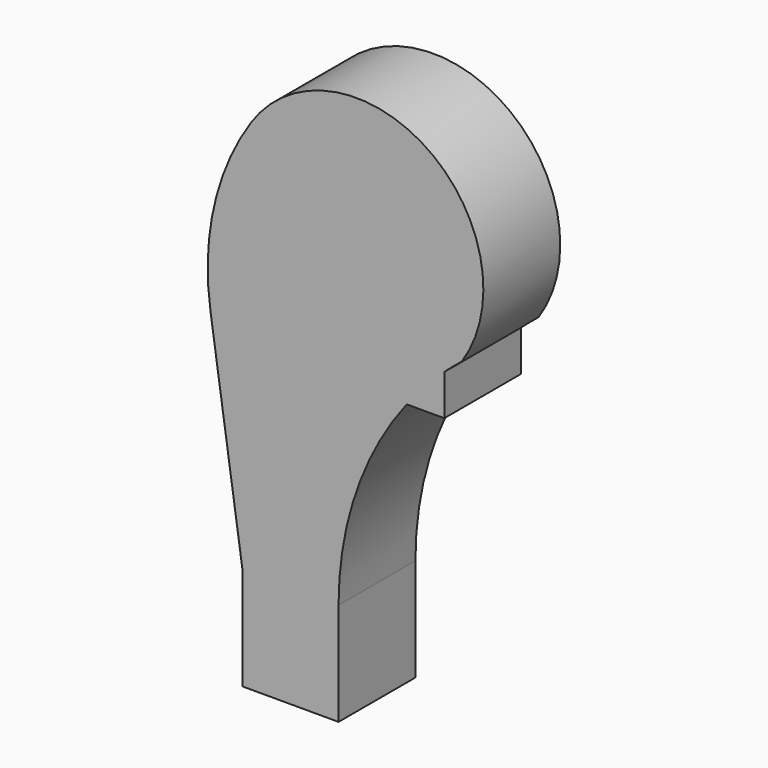
from build123d import *

# Parameters (mm, degrees)
F0_W     = 25.4
F0_H     = 27.1824385993
F1_DEPTH = 25.4


with BuildPart() as f1:
    # F0 (on Front) → F1 (new body)
    with BuildSketch(Plane.XZ):
        Rectangle(F0_W, F0_H)
        with BuildLine():
            Line((-12.7, 13.5912192996), (12.7, 13.5912192996))
            ThreePointArc((12.7, 13.5912192996), (17.3283875058, 41.3824681099), (30.7139166393, 66.1736578989))
            Line((30.7139166393, 66.1736578989), (21.6122598061, 66.1736578989))
            Line((21.6122598061, 66.1736578989), (21.6122598061, 94.7486578989))
            Line((21.6122598061, 94.7486578989), (40.6622598061, 94.7486578989))
            Line((40.6622598061, 94.7486578989), (40.6622598061, 76.9448460237))
            ThreePointArc((40.6622598061, 76.9448460237), (42.9326075911, 78.9435530103), (45.2720345813, 80.860944478))
            ThreePointArc((45.2720345813, 80.860944478), (36.1248195117, 127.4576869434), (-10.4719229536, 118.3104718738))
            ThreePointArc((-10.4719229536, 118.3104718738), (-20.2255792098, 95.6905935466), (-21.1666536119, 71.0754135783))
            Line((-21.1666536119, 71.0754135783), (-12.7, 13.5912192996))
        make_face()
        with BuildLine():
            ThreePointArc((40.6622598061, 76.9448460237), (35.4574461279, 71.7722745806), (30.7139166393, 66.1736578989))
            Line((30.7139166393, 66.1736578989), (40.6622598061, 66.1736578989))
            Line((40.6622598061, 66.1736578989), (40.6622598061, 76.9448460237))
        make_face()
        with BuildLine():
            Line((21.6122598061, 66.1736578989), (30.7139166393, 66.1736578989))
            ThreePointArc((30.7139166393, 66.1736578989), (35.4574461279, 71.7722745806), (40.6622598061, 76.9448460237))
            Line((40.6622598061, 76.9448460237), (40.6622598061, 94.7486578989))
            Line((40.6622598061, 94.7486578989), (21.6122598061, 94.7486578989))
            Line((21.6122598061, 94.7486578989), (21.6122598061, 66.1736578989))
        make_face()
    extrude(amount=F1_DEPTH)


solid = f1.part
